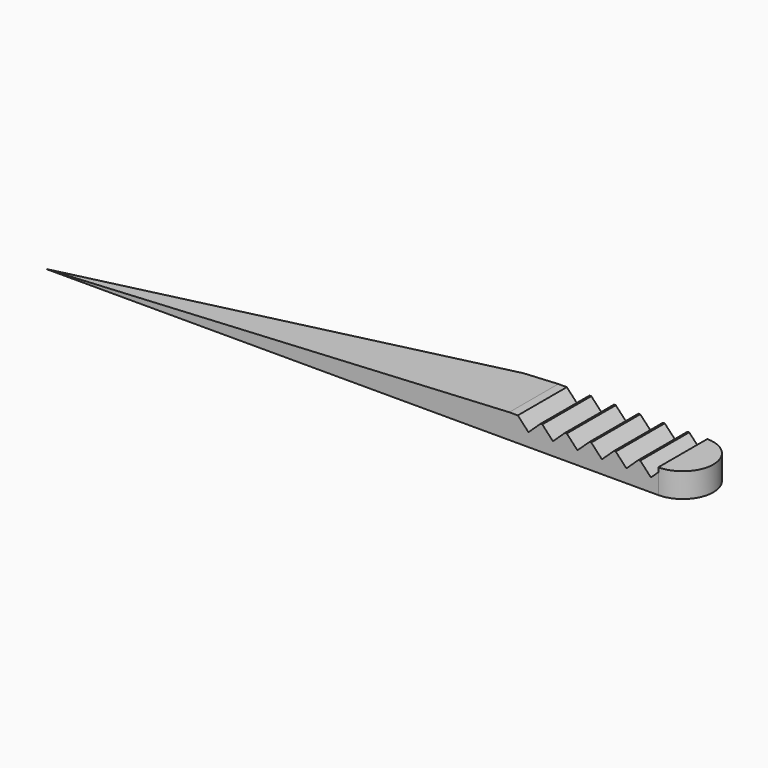
from build123d import *

# Parameters (mm, degrees)
F1_DEPTH = 2
F3_DEPTH = 5
F5_DEPTH = 5


with BuildPart() as f1:
    # F0 (on Top) → F1 (new body)
    with BuildSketch(Plane.XY):
        with BuildLine():
            Line((-15, 5), (-50, 0))
            Line((-50, 0), (0, 0))
            ThreePointArc((0, 0), (2.5, 2.5), (0, 5))
            Line((0, 5), (-15, 5))
        make_face()
    extrude(amount=F1_DEPTH)

    # F2 (on face) → F3 (cut)
    with BuildSketch(Plane.XZ):
        Polygon((-50, 2), (-50, 0), (-12.168623, 2), align=None)
    extrude(amount=-F3_DEPTH, mode=Mode.SUBTRACT)

    # F4 (on face) → F5 (cut)
    with BuildSketch(Plane.XZ):
        Polygon((-9.615218, 2), (-11.471676, 2), (-10.602703, 1.073664), align=None)
        Polygon((-7.615218, 2), (-9.471676, 2), (-8.602703, 1.073664), align=None)
        Polygon((-5.615218, 2), (-7.471676, 2), (-6.602703, 1.073664), align=None)
        Polygon((-3.615218, 2), (-5.471676, 2), (-4.602703, 1.073664), align=None)
        Polygon((-2.602703, 1.073664), (-1.615218, 2), (-3.471676, 2), align=None)
        Polygon((-0.602703, 1.073664), (0, 1.639045), (0, 2), (-1.471676, 2), align=None)
    extrude(amount=-F5_DEPTH, mode=Mode.SUBTRACT)


solid = f1.part
